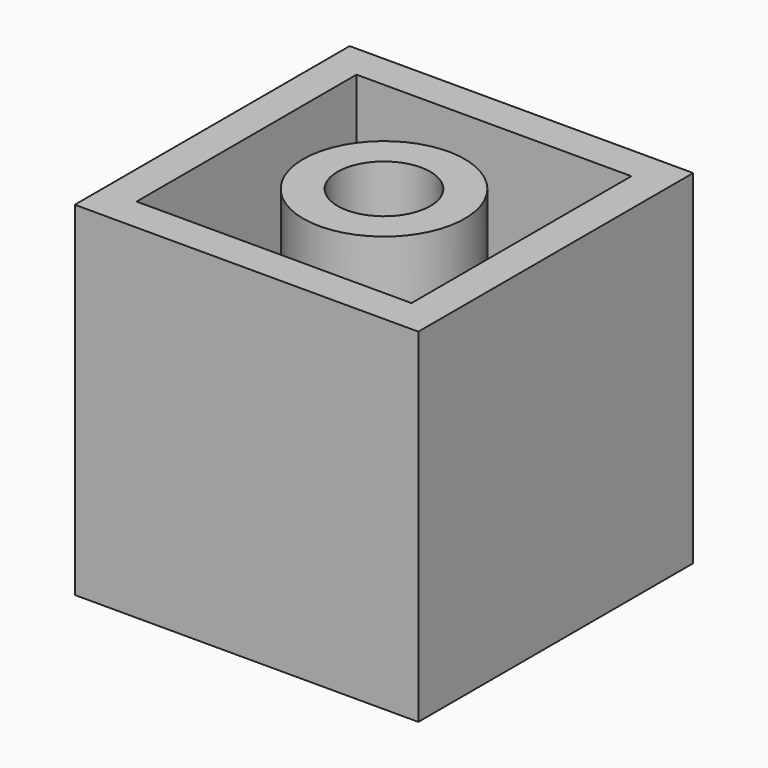
from build123d import *

# Parameters (mm, degrees)
F0_W     = 10
F0_H     = 10
F1_DEPTH = 10
F3_D     = 2.7
F4_T     = -1


with BuildPart() as f1:
    # F0 (on Top) → F1 (new body)
    with BuildSketch(Plane.XY):
        with Locations((5, 5)):
            Rectangle(F0_W, F0_H)
    extrude(amount=F1_DEPTH)

    # F3 (through all)
    with Locations(Plane.XY.offset(10)):
        with Locations((5, 5)):
            Hole(F3_D / 2)

    # F4
    f4_openings = [f1.faces().sort_by_distance(p)[0] for p in [
        (0.141421, 5, 10),
    ]]
    offset(amount=F4_T, openings=f4_openings)


solid = f1.part
